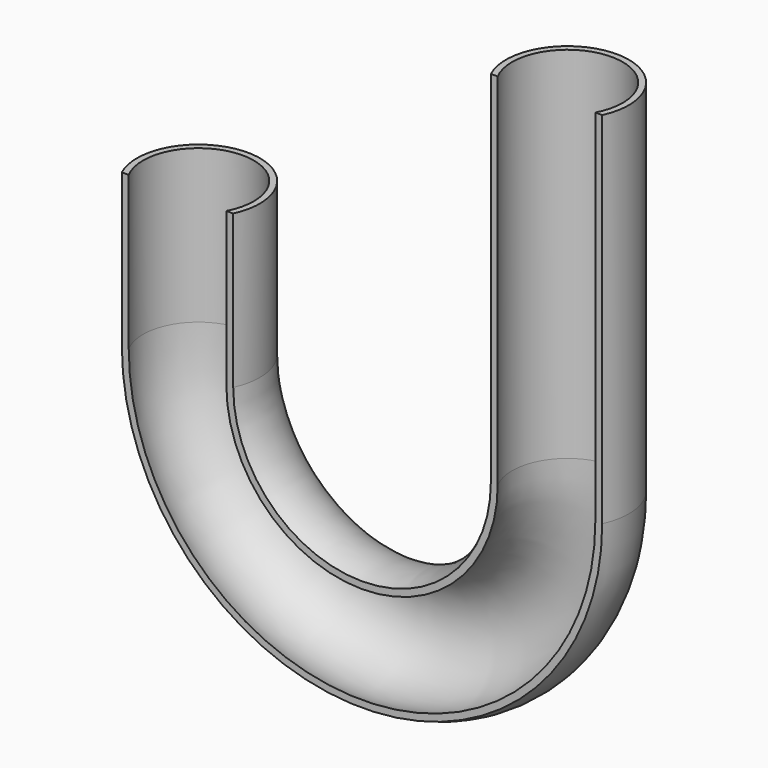
from build123d import *

# Parameters (mm, degrees)
F2_R     = 10
F4_R     = 9
F6_W     = 85.2154158056
F6_H     = 10.0725549273
F7_DEPTH = 60


with BuildPart() as f3:
    # F3: sweep along a path in F0
    with BuildLine(Plane.XZ) as f3_path:
        Line((30, 58.5), (30, 0))
        ThreePointArc((30, 0), (0, -30), (-30, 0))
        Line((-30, 0), (-30, 24.9))
    # F2 (on line) → F3 (sweep)
    with BuildSketch(Plane(origin=(0, 0, 58.5), x_dir=(1, 0, 0), z_dir=(0, 0, -1))):
        with Locations((30, 0)):
            Circle(F2_R)
    sweep(path=f3_path.line)

    # F5: sweep along a path in F0
    with BuildLine(Plane.XZ) as f5_path:
        Line((-30, 24.9), (-30, 0))
        ThreePointArc((-30, 0), (0, -30), (30, 0))
        Line((30, 0), (30, 58.5))
    # F4 (on face) → F5 (sweep, cut)
    with BuildSketch(Plane.XY.offset(58.5)):
        with Locations((30, 0)):
            Circle(F4_R)
    sweep(path=f5_path.line, mode=Mode.SUBTRACT)


with BuildPart() as f7:
    # F6 (on Top) → F7 (new body, symmetric)
    with BuildSketch(Plane.XY):
        with Locations((-1.6176421195, -9.2803204898)):
            Rectangle(F6_W, F6_H)
    extrude(amount=F7_DEPTH, both=True)


with BuildPart() as f3_1:
    add(f3.part)

    # F8: cut F7
    add(f7.part, mode=Mode.SUBTRACT)


solid = f3_1.part
